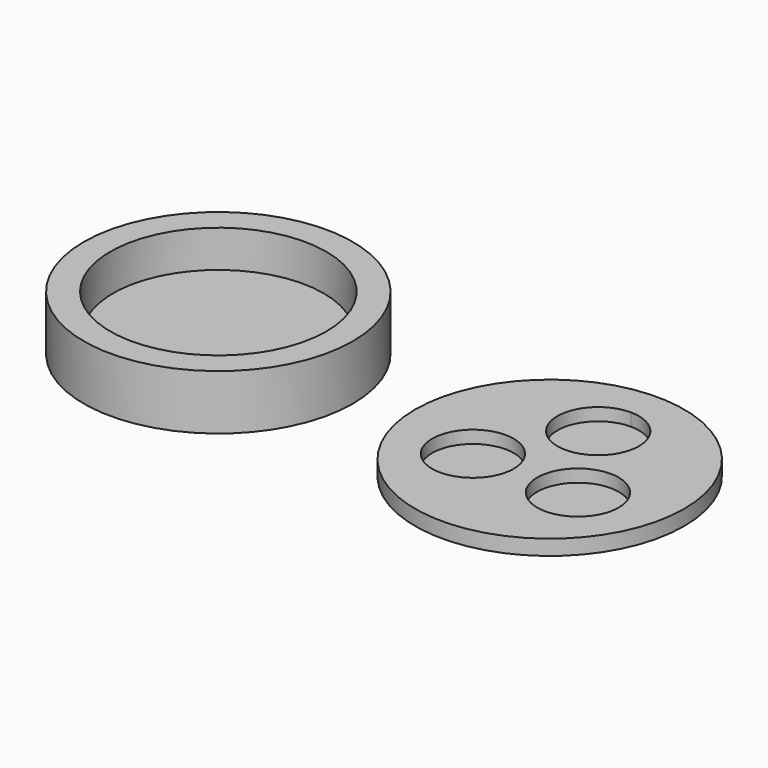
from build123d import *

# Parameters (mm, degrees)
F0_R     = 20.3
F1_DEPTH = 1.9
F2_R     = 20.3
F3_DEPTH = 0.4
F5_R     = 20.3
F5_R_2   = 16.3
F6_DEPTH = 6
F7_R     = 15.9
F7_R_2   = 6.15
F8_DEPTH = 0.6


with BuildPart() as f1:
    # F0 (on Top) → F1 (new body)
    with BuildSketch(Plane.XY):
        Circle(F0_R)
        with BuildLine():
            ThreePointArc((0, 15.3), (10.8187337522, 10.8187337522), (15.3, 0))
            ThreePointArc((15.3, 0), (14.7786651096, -3.9599315118), (13.2501885519, -7.6500002183))
            ThreePointArc((13.2501885519, -7.6500002183), (-2.416e-07, -15.3), (-13.2501887935, -7.6499997999))
            ThreePointArc((-13.2501887935, -7.6499997999), (-13.2501886201, 7.6500001001), (0, 15.3))
        make_face(mode=Mode.SUBTRACT)
        with BuildLine():
            ThreePointArc((13.2501885519, -7.6500002183), (14.7786651096, -3.9599315118), (15.3, 0))
            ThreePointArc((15.3, 0), (10.8187337522, 10.8187337522), (0, 15.3))
            ThreePointArc((0, 15.3), (-13.2501886201, 7.6500001001), (-13.2501887935, -7.6499997999))
            ThreePointArc((-13.2501887935, -7.6499997999), (-2.416e-07, -15.3), (13.2501885519, -7.6500002183))
        make_face()
        with BuildLine():
            ThreePointArc((-1.7741324446, -4.575), (-6.3323954289, -10.5154438616), (-13.2501887935, -7.6499997999))
            ThreePointArc((-13.2501887935, -7.6499997999), (-9.5158694604, 1.3654438616), (-1.7741324446, -4.575))
        make_face(mode=Mode.SUBTRACT)
        with BuildLine():
            ThreePointArc((14.0741324446, -4.575), (13.8645762437, -6.1667372491), (13.2501885519, -7.6500002183))
            ThreePointArc((13.2501885519, -7.6500002183), (1.9836886456, -2.9832627509), (14.0741324446, -4.575))
        make_face(mode=Mode.SUBTRACT)
        with BuildLine():
            ThreePointArc((6.15, 9.15), (-4.3487067043, 4.8012932957), (0, 15.3))
            ThreePointArc((0, 15.3), (4.3487067043, 13.4987067043), (6.15, 9.15))
        make_face(mode=Mode.SUBTRACT)
    extrude(amount=F1_DEPTH)

    # F2 (on face) → F3 (join)
    with BuildSketch(Plane(origin=(0, 0, 0), x_dir=(1, 0, 0), z_dir=(0, 0, -1))):
        Circle(F2_R)
    extrude(amount=F3_DEPTH)


with BuildPart() as f4_1:
    # F4: copy of F1
    add(f1.part.moved(Location((50, 0, 0))))


with BuildPart() as f1_1:
    add(f1.part)

    # F5 (on face) → F6 (join)
    with BuildSketch(Plane.XY.offset(1.9)):
        Circle(F5_R)
        Circle(F5_R_2, mode=Mode.SUBTRACT)
    extrude(amount=F6_DEPTH)


with BuildPart() as f8:
    # F7 (on face) → F8 (new body)
    with BuildSketch(Plane.XY.offset(1.9)):
        Circle(F7_R)
        with Locations((-7.9241324446, -4.575)):
            Circle(F7_R_2, mode=Mode.SUBTRACT)
        with Locations((7.9241324446, -4.575)):
            Circle(F7_R_2, mode=Mode.SUBTRACT)
        with Locations((0, 9.15)):
            Circle(F7_R_2, mode=Mode.SUBTRACT)
        with Locations((-7.9241324446, -4.575)):
            Circle(F7_R_2)
        with Locations((7.9241324446, -4.575)):
            Circle(F7_R_2)
        with Locations((0, 9.15)):
            Circle(F7_R_2)
    extrude(amount=F8_DEPTH)


solid = Compound([f4_1.part, f1_1.part, f8.part])
